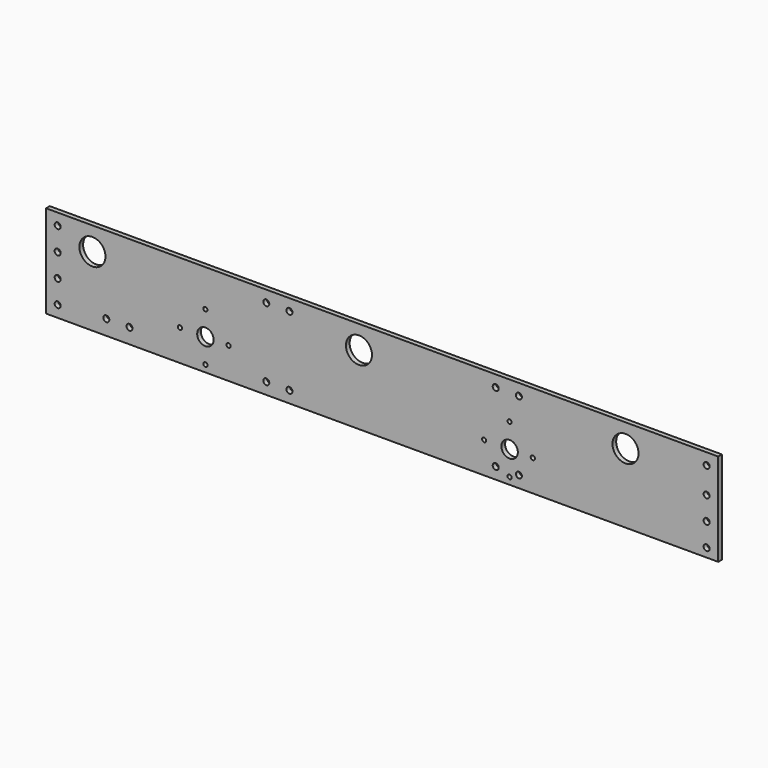
from build123d import *

# Parameters (mm, degrees)
F0_R     = 3.302
F0_R_2   = 2.286
F0_R_3   = 9.017
F0_R_4   = 14.2875
F1_DEPTH = 5.08


with BuildPart() as f1:
    # F0 (on Front) → F1 (new body)
    with BuildSketch(Plane.XZ):
        Polygon((530.29324, 50.937387), (-206.30676, 50.937387), (-206.30676, 0.137387), (-206.30676, -50.662613), (530.29324, -50.662613), align=None)
        with Locations((-193.60676, -37.962613)):
            Circle(F0_R, mode=Mode.SUBTRACT)
        with Locations((-31.68176, -43.042613)):
            Circle(F0_R_2, mode=Mode.SUBTRACT)
        with Locations((-140.26676, -34.152613)):
            Circle(F0_R, mode=Mode.SUBTRACT)
        with Locations((-114.86676, -34.152613)):
            Circle(F0_R, mode=Mode.SUBTRACT)
        with Locations((34.99324, -37.962613)):
            Circle(F0_R, mode=Mode.SUBTRACT)
        with Locations((60.39324, -37.962613)):
            Circle(F0_R, mode=Mode.SUBTRACT)
        with Locations((-193.60676, -12.562613)):
            Circle(F0_R, mode=Mode.SUBTRACT)
        with Locations((-59.62176, -16.372613)):
            Circle(F0_R_2, mode=Mode.SUBTRACT)
        with Locations((-31.68176, -16.372613)):
            Circle(F0_R_3, mode=Mode.SUBTRACT)
        with Locations((-6.28176, -16.372613)):
            Circle(F0_R_2, mode=Mode.SUBTRACT)
        with Locations((301.69324, -43.042613)):
            Circle(F0_R_2, mode=Mode.SUBTRACT)
        with Locations((286.45324, -37.962613)):
            Circle(F0_R, mode=Mode.SUBTRACT)
        with Locations((311.85324, -37.962613)):
            Circle(F0_R, mode=Mode.SUBTRACT)
        with Locations((517.59324, -41.090906)):
            Circle(F0_R, mode=Mode.SUBTRACT)
        with Locations((273.75324, -16.372613)):
            Circle(F0_R_2, mode=Mode.SUBTRACT)
        with Locations((301.69324, -16.372613)):
            Circle(F0_R_3, mode=Mode.SUBTRACT)
        with Locations((327.09324, -16.372613)):
            Circle(F0_R_2, mode=Mode.SUBTRACT)
        with Locations((517.59324, -15.690906)):
            Circle(F0_R, mode=Mode.SUBTRACT)
        with Locations((-193.60676, 12.837387)):
            Circle(F0_R, mode=Mode.SUBTRACT)
        with Locations((-31.68176, 10.297387)):
            Circle(F0_R_2, mode=Mode.SUBTRACT)
        with Locations((-155.50676, 25.537387)):
            Circle(F0_R_4, mode=Mode.SUBTRACT)
        with Locations((136.59324, 25.537387)):
            Circle(F0_R_4, mode=Mode.SUBTRACT)
        with Locations((-193.60676, 38.237387)):
            Circle(F0_R, mode=Mode.SUBTRACT)
        with Locations((34.99324, 38.237387)):
            Circle(F0_R, mode=Mode.SUBTRACT)
        with Locations((60.39324, 38.237387)):
            Circle(F0_R, mode=Mode.SUBTRACT)
        with Locations((301.69324, 10.297387)):
            Circle(F0_R_2, mode=Mode.SUBTRACT)
        with Locations((517.59324, 9.709094)):
            Circle(F0_R, mode=Mode.SUBTRACT)
        with Locations((428.69324, 25.537387)):
            Circle(F0_R_4, mode=Mode.SUBTRACT)
        with Locations((286.45324, 38.237387)):
            Circle(F0_R, mode=Mode.SUBTRACT)
        with Locations((311.85324, 38.237387)):
            Circle(F0_R, mode=Mode.SUBTRACT)
        with Locations((517.59324, 38.237387)):
            Circle(F0_R, mode=Mode.SUBTRACT)
    extrude(amount=F1_DEPTH)


solid = f1.part
